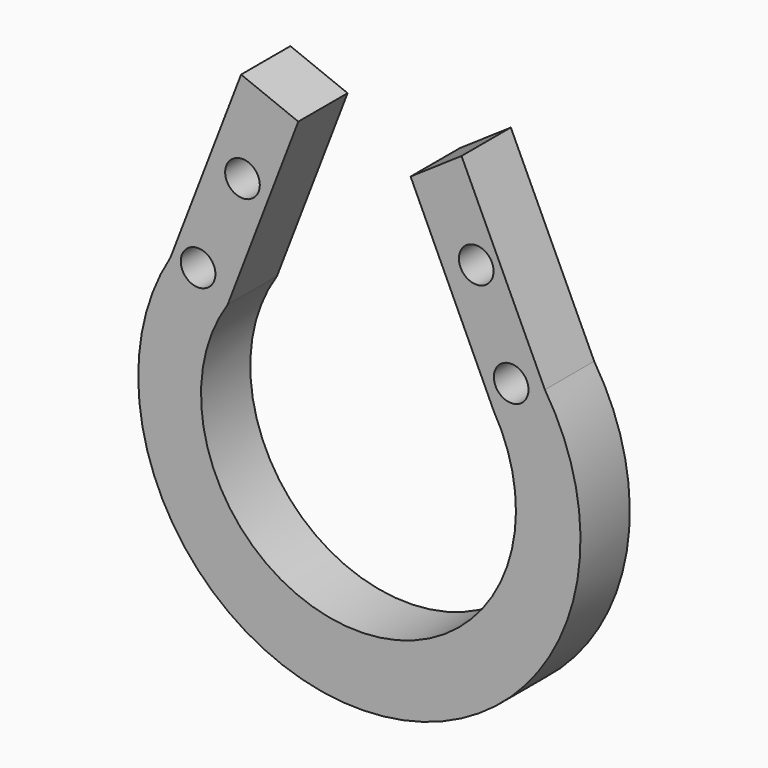
from build123d import *

# Parameters (mm, degrees)
F0_R     = 1.784849
F1_DEPTH = 6.35


with BuildPart() as f1:
    # F0 (on Front) → F1 (new body)
    with BuildSketch(Plane.XZ):
        with BuildLine():
            Line((-39.130219, 46.44509), (-45.027836, 48.798941))
            Line((-45.027836, 48.798941), (-52.307507, 29.827678))
            ThreePointArc((-52.307507, 29.827678), (-32.506045, -4.80508), (-13.713412, 30.385298))
            Line((-13.713412, 30.385298), (-22.306443, 48.798941))
            Line((-22.306443, 48.798941), (-27.55589, 45.226014))
            Line((-27.55589, 45.226014), (-19.012123, 26.789462))
            ThreePointArc((-19.012123, 26.789462), (-33.333461, 2.212399), (-46.409889, 27.473828))
            Line((-46.409889, 27.473828), (-39.130219, 46.44509))
        make_face()
        with Locations((-49.460992, 29.827678)):
            Circle(F0_R, mode=Mode.SUBTRACT)
        with Locations((-44.881383, 39.405295)):
            Circle(F0_R, mode=Mode.SUBTRACT)
        with Locations((-17.188478, 29.827678)):
            Circle(F0_R, mode=Mode.SUBTRACT)
        with Locations((-20.789231, 39.405295)):
            Circle(F0_R, mode=Mode.SUBTRACT)
    extrude(amount=F1_DEPTH)


solid = f1.part
